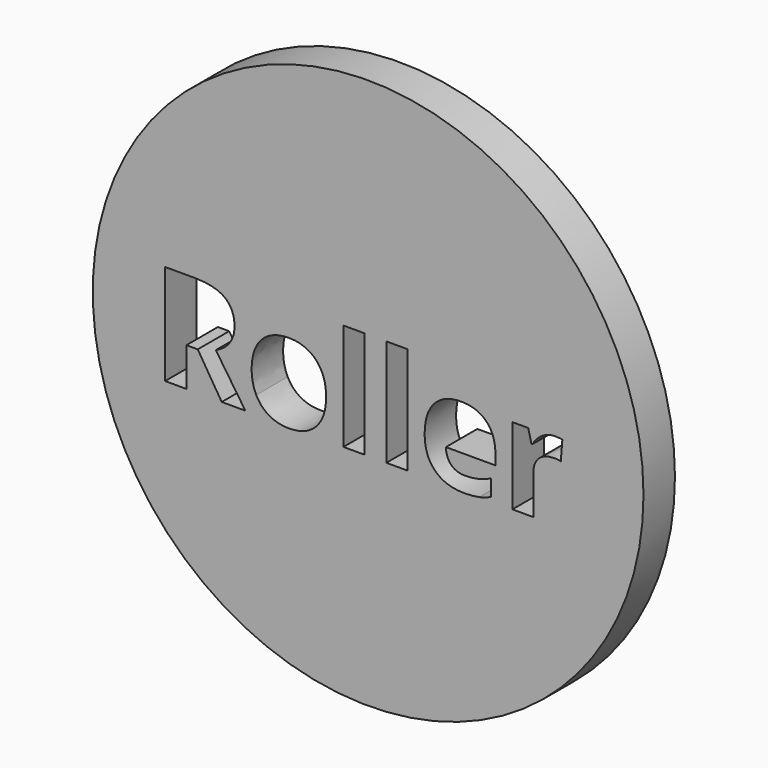
from build123d import *

# Parameters (mm, degrees)
F0_R     = 44.45
F0_W     = 3.3813905481
F0_H     = 17.2546718104
F1_DEPTH = 6.35


with BuildPart() as f1:
    # F0 (on Front) → F1 (new body)
    with BuildSketch(Plane.XZ):
        Circle(F0_R)
        with BuildLine():
            Line((-27.5039295863, -2.7326104788), (-29.3312287807, -2.7326104788))
            Line((-29.3312287807, -2.7326104788), (-29.3312287807, -8.9525240473))
            Line((-29.3312287807, -8.9525240473), (-32.7693897892, -8.9525240473))
            Line((-32.7693897892, -8.9525240473), (-32.7693897892, 7.2589905531))
            Line((-32.7693897892, 7.2589905531), (-28.046797114, 7.2589905531))
            add(Edge.make_bspline(
                [(-28.046797114, 7.2589905531), (-24.7399177952, 7.2589905531), (-23.1556671344, 6.0561664231)],
                knots=[0, 0, 0, 1, 1, 1], degree=2))
            add(Edge.make_bspline(
                [(-23.1556671344, 6.0561664231), (-21.5714164736, 4.8533422932), (-21.5714164736, 2.4015680344)],
                knots=[0, 0, 0, 1, 1, 1], degree=2))
            add(Edge.make_bspline(
                [(-21.5714164736, 2.4015680344), (-21.5714164736, 0.9716620628), (-22.3573325349, -0.1424582227)],
                knots=[0, 0, 0, 1, 1, 1], degree=2))
            add(Edge.make_bspline(
                [(-22.3573325349, -0.1424582227), (-23.1432485962, -1.2565785082), (-24.5873471828, -1.8881498803)],
                knots=[0, 0, 0, 1, 1, 1], degree=2))
            add(Edge.make_bspline(
                [(-24.5873471828, -1.8881498803), (-20.9256524865, -7.3558548484), (-19.8186285085, -8.9525240473)],
                knots=[0, 0, 0, 1, 1, 1], degree=2))
            Line((-19.8186285085, -8.9525240473), (-23.6328938172, -8.9525240473))
            Line((-23.6328938172, -8.9525240473), (-27.5039295863, -2.7326104788))
        make_face(mode=Mode.SUBTRACT)
        with BuildLine():
            add(Edge.make_bspline(
                [(-7.5100830612, 0.6718430688), (-6.7791633834, -0.7811259023), (-6.7791633834, -2.7326104788)],
                knots=[0, 0, 0, 1, 1, 1], degree=2))
            add(Edge.make_bspline(
                [(-6.7791633834, -2.7326104788), (-6.7791633834, -5.7591856494), (-8.3758325824, -7.4676216923)],
                knots=[0, 0, 0, 1, 1, 1], degree=2))
            add(Edge.make_bspline(
                [(-8.3758325824, -7.4676216923), (-9.9725017814, -9.1760577352), (-12.8216692632, -9.1760577352)],
                knots=[0, 0, 0, 1, 1, 1], degree=2))
            add(Edge.make_bspline(
                [(-12.8216692632, -9.1760577352), (-14.6063906122, -9.1760577352), (-15.9706557389, -8.3936898277)],
                knots=[0, 0, 0, 1, 1, 1], degree=2))
            add(Edge.make_bspline(
                [(-15.9706557389, -8.3936898277), (-17.3349208656, -7.6113219202), (-18.0658405434, -6.1477084878)],
                knots=[0, 0, 0, 1, 1, 1], degree=2))
            add(Edge.make_bspline(
                [(-18.0658405434, -6.1477084878), (-18.7967602211, -4.6840950554), (-18.7967602211, -2.7326104788)],
                knots=[0, 0, 0, 1, 1, 1], degree=2))
            add(Edge.make_bspline(
                [(-18.7967602211, -2.7326104788), (-18.7967602211, 0.304609153), (-17.2125095604, 1.9899821964)],
                knots=[0, 0, 0, 1, 1, 1], degree=2))
            add(Edge.make_bspline(
                [(-17.2125095604, 1.9899821964), (-15.6282588996, 3.6753552398), (-12.7542543414, 3.6753552398)],
                knots=[0, 0, 0, 1, 1, 1], degree=2))
            add(Edge.make_bspline(
                [(-12.7542543414, 3.6753552398), (-10.9695329923, 3.6753552398), (-9.6052678656, 2.9000836398)],
                knots=[0, 0, 0, 1, 1, 1], degree=2))
            add(Edge.make_bspline(
                [(-9.6052678656, 2.9000836398), (-8.2410027389, 2.1248120399), (-7.5100830612, 0.6718430688)],
                knots=[0, 0, 0, 1, 1, 1], degree=2))
        make_face(mode=Mode.SUBTRACT)
        with Locations((-2.2925229343, -0.3251881421)):
            Rectangle(F0_W, F0_H, mode=Mode.SUBTRACT)
        with Locations((4.6370213893, -0.3251881421)):
            Rectangle(F0_W, F0_H, mode=Mode.SUBTRACT)
        with BuildLine():
            add(Edge.make_bspline(
                [(17.9479202783, -8.9596203549), (16.940244606, -9.1760577352), (15.485501558, -9.1760577352)],
                knots=[0, 0, 0, 1, 1, 1], degree=2))
            add(Edge.make_bspline(
                [(15.485501558, -9.1760577352), (12.4944079253, -9.1760577352), (10.8090348819, -7.5226180758)],
                knots=[0, 0, 0, 1, 1, 1], degree=2))
            add(Edge.make_bspline(
                [(10.8090348819, -7.5226180758), (9.1236618385, -5.8691784164), (9.1236618385, -2.8426032459)],
                knots=[0, 0, 0, 1, 1, 1], degree=2))
            add(Edge.make_bspline(
                [(9.1236618385, -2.8426032459), (9.1236618385, 0.272675769), (10.681301346, 1.9740155044)],
                knots=[0, 0, 0, 1, 1, 1], degree=2))
            add(Edge.make_bspline(
                [(10.681301346, 1.9740155044), (12.2389408534, 3.6753552398), (14.9887600295, 3.6753552398)],
                knots=[0, 0, 0, 1, 1, 1], degree=2))
            add(Edge.make_bspline(
                [(14.9887600295, 3.6753552398), (17.6143938234, 3.6753552398), (19.0780072558, 2.1798084234)],
                knots=[0, 0, 0, 1, 1, 1], degree=2))
            add(Edge.make_bspline(
                [(19.0780072558, 2.1798084234), (20.5416206882, 0.684261607), (20.5416206882, -1.955564802)],
                knots=[0, 0, 0, 1, 1, 1], degree=2))
            Line((20.5416206882, -1.955564802), (20.5416206882, -3.5983600001))
            Line((20.5416206882, -3.5983600001), (12.5476302319, -3.5983600001))
            add(Edge.make_bspline(
                [(12.5476302319, -3.5983600001), (12.6044006923, -5.0389104329), (13.4027352918, -5.8478894938)],
                knots=[0, 0, 0, 1, 1, 1], degree=2))
            add(Edge.make_bspline(
                [(13.4027352918, -5.8478894938), (14.2010698913, -6.6568685546), (15.6416203242, -6.6568685546)],
                knots=[0, 0, 0, 1, 1, 1], degree=2))
            add(Edge.make_bspline(
                [(15.6416203242, -6.6568685546), (16.7628369172, -6.6568685546), (17.7598681281, -6.4244644823)],
                knots=[0, 0, 0, 1, 1, 1], degree=2))
            add(Edge.make_bspline(
                [(17.7598681281, -6.4244644823), (18.7568993391, -6.19206041), (19.8426343944, -5.6811262663)],
                knots=[0, 0, 0, 1, 1, 1], degree=2))
            Line((19.8426343944, -5.6811262663), (19.8426343944, -8.2996637526))
            add(Edge.make_bspline(
                [(19.8426343944, -8.2996637526), (18.9555959505, -8.7431829746), (17.9479202783, -8.9596203549)],
                knots=[0, 0, 0, 1, 1, 1], degree=2))
        make_face(mode=Mode.SUBTRACT)
        with BuildLine():
            add(Edge.make_bspline(
                [(28.0761252305, 3.0384616371), (29.0571897494, 3.6753552398), (30.2103397265, 3.6753552398)],
                knots=[0, 0, 0, 1, 1, 1], degree=2))
            add(Edge.make_bspline(
                [(30.2103397265, 3.6753552398), (30.8986815589, 3.6753552398), (31.3528452422, 3.5760069341)],
                knots=[0, 0, 0, 1, 1, 1], degree=2))
            Line((31.3528452422, 3.5760069341), (31.0973781704, 0.4075056125))
            add(Edge.make_bspline(
                [(31.0973781704, 0.4075056125), (30.6857923324, 0.5174983795), (30.1003469594, 0.5174983795)],
                knots=[0, 0, 0, 1, 1, 1], degree=2))
            add(Edge.make_bspline(
                [(30.1003469594, 0.5174983795), (28.4823888378, 0.5174983795), (27.577609625, -0.3145436808)],
                knots=[0, 0, 0, 1, 1, 1], degree=2))
            add(Edge.make_bspline(
                [(27.577609625, -0.3145436808), (26.6728304123, -1.1465857412), (26.6728304123, -2.6439066345)],
                knots=[0, 0, 0, 1, 1, 1], degree=2))
            Line((26.6728304123, -2.6439066345), (26.6728304123, -8.9525240473))
            Line((26.6728304123, -8.9525240473), (23.2914398642, -8.9525240473))
            Line((23.2914398642, -8.9525240473), (23.2914398642, 3.4447252444))
            Line((23.2914398642, 3.4447252444), (25.8532068901, 3.4447252444))
            Line((25.8532068901, 3.4447252444), (26.3534965725, 1.3584108243))
            Line((26.3534965725, 1.3584108243), (26.5167116462, 1.3584108243))
            add(Edge.make_bspline(
                [(26.5167116462, 1.3584108243), (27.0950607116, 2.4015680344), (28.0761252305, 3.0384616371)],
                knots=[0, 0, 0, 1, 1, 1], degree=2))
        make_face(mode=Mode.SUBTRACT)
    extrude(amount=F1_DEPTH)


solid = f1.part
